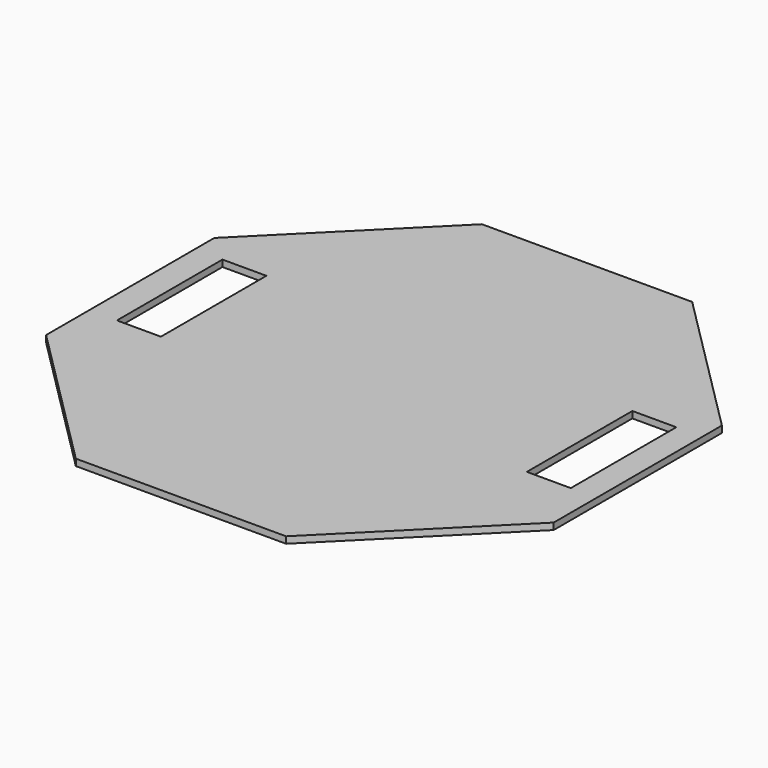
from build123d import *

# Parameters (mm, degrees)
F1_DEPTH = 9
F2_W     = 60
F2_H     = 180
F3_DEPTH = 9.001


with BuildPart() as f1:
    # F0 (on Top) → F1 (new body)
    with BuildSketch(Plane.XY):
        Polygon((143.506287, 346.454825), (-143.506287, 346.454825), (-346.454825, 143.506287), (-346.454825, -143.506287), (-143.506287, -346.454825), (143.506287, -346.454825), (346.454825, -143.506287), (346.454825, 143.506287), align=None)
    extrude(amount=F1_DEPTH)

    # F2 (on face) → F3 (cut, through all)
    with BuildSketch(Plane.XY.offset(9)):
        with Locations((-278.530539, 20)):
            Rectangle(F2_W, F2_H)
        with Locations((280.984699, 20)):
            Rectangle(F2_W, F2_H)
    extrude(amount=-F3_DEPTH, mode=Mode.SUBTRACT)


solid = f1.part
